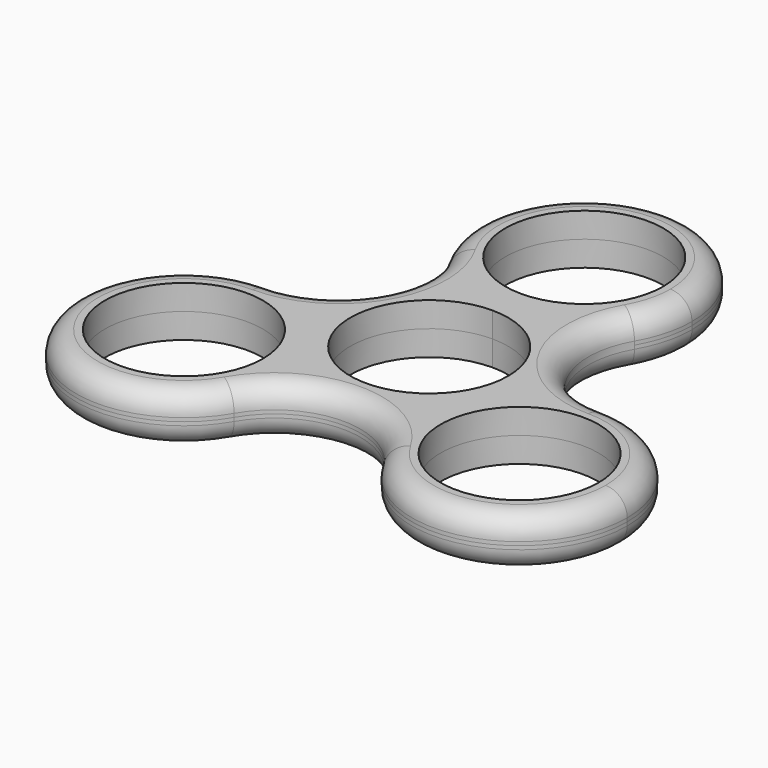
from build123d import *

# Parameters (mm, degrees)
F0_R     = 11
F1_DEPTH = 3.5
F2_R     = 3


with BuildPart() as f1:
    # F0 (on Top) → F1 (new body, symmetric)
    with BuildSketch(Plane.XY):
        with BuildLine():
            ThreePointArc((12.9903810568, 19.5), (7.5, 14.0096189432), (0, 12))
            ThreePointArc((0, 12), (-7.5, 14.0096189432), (-12.9903810568, 19.5))
            ThreePointArc((-12.9903810568, 19.5), (-12.9903810568, 7.5), (-23.3826859022, 1.5))
            ThreePointArc((-23.3826859022, 1.5), (-12.7760841844, -2.8933982822), (-8.3826859022, -13.5))
            ThreePointArc((-8.3826859022, -13.5), (-8.8937985078, -17.3822856765), (-10.3923048454, -21))
            ThreePointArc((-10.3923048454, -21), (0, -15), (10.3923048454, -21))
            ThreePointArc((10.3923048454, -21), (10.3923048454, -6), (23.3826859022, 1.5))
            ThreePointArc((23.3826859022, 1.5), (12.9903810568, 7.5), (12.9903810568, 19.5))
        make_face()
        with BuildLine():
            ThreePointArc((0, 11), (7.7781745931, 7.7781745931), (11, 0))
            ThreePointArc((11, 0), (-7.7781745931, -7.7781745931), (0, 11))
        make_face(mode=Mode.SUBTRACT)
        with BuildLine():
            ThreePointArc((-12.9903810568, 19.5), (-7.5, 14.0096189432), (0, 12))
            ThreePointArc((0, 12), (7.5, 14.0096189432), (12.9903810568, 19.5))
            ThreePointArc((12.9903810568, 19.5), (14.4888873943, 23.1177143235), (15, 27))
            ThreePointArc((15, 27), (-3.8822856765, 41.4888873943), (-12.9903810568, 19.5))
        make_face()
        with BuildLine():
            ThreePointArc((11, 27), (7.7781745931, 19.2218254069), (0, 16))
            ThreePointArc((0, 16), (-7.7781745931, 34.7781745931), (11, 27))
        make_face(mode=Mode.SUBTRACT)
        with BuildLine():
            ThreePointArc((-8.3826859022, -13.5), (-12.7760841844, -2.8933982822), (-23.3826859022, 1.5))
            ThreePointArc((-23.3826859022, 1.5), (-36.3730669589, -21), (-10.3923048454, -21))
            ThreePointArc((-10.3923048454, -21), (-8.8937985078, -17.3822856765), (-8.3826859022, -13.5))
        make_face()
        with Locations((-23.3826859022, -13.5)):
            Circle(F0_R, mode=Mode.SUBTRACT)
        with BuildLine():
            ThreePointArc((38.3826859022, -13.5), (33.98928762, -2.8933982822), (23.3826859022, 1.5))
            ThreePointArc((23.3826859022, 1.5), (10.3923048454, -6), (10.3923048454, -21))
            ThreePointArc((10.3923048454, -21), (27.2649715787, -27.9888873943), (38.3826859022, -13.5))
        make_face()
        with Locations((23.3826859022, -13.5)):
            Circle(F0_R, mode=Mode.SUBTRACT)
    extrude(amount=F1_DEPTH, both=True)

    # F2
    f2_edges = [f1.edges().sort_by_distance(p)[0] for p in [
        (0, 42, 3.5),
        (-36.373067, -21, -3.5),
    ]]
    fillet(f2_edges, radius=F2_R)


solid = f1.part
